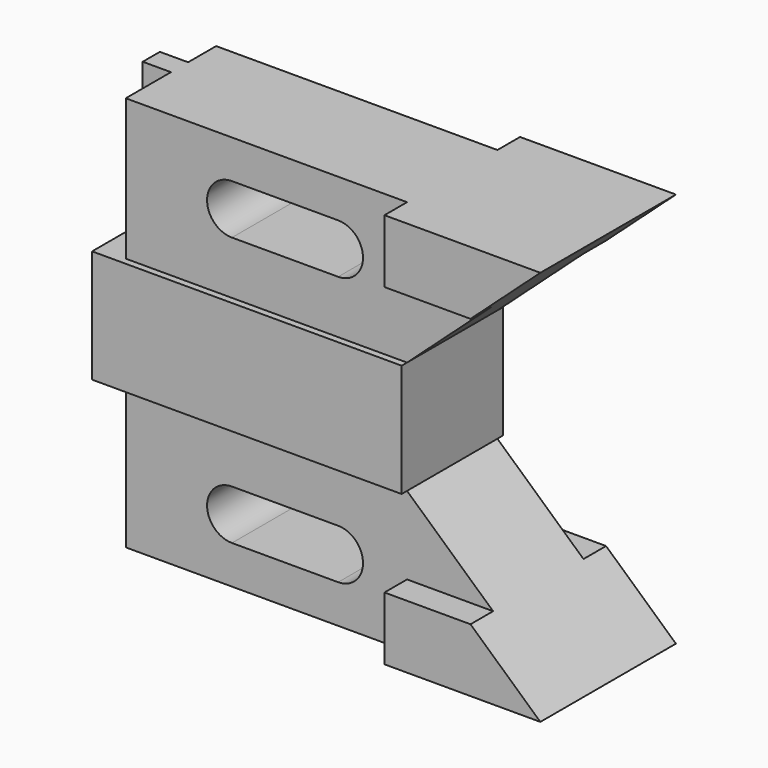
from build123d import *

# Parameters (mm, degrees)
F1_DEPTH = 14.224
F0_W     = 6.35
F0_H     = 17.526
F0_H_2   = 14.224
F2_DEPTH = 4.826
F3_DEPTH = 12.7
F4_DEPTH = 12.7
F5_DEPTH = 19.05


with BuildPart() as f1:
    # F0 (on Front) → F1 (new body, symmetric)
    with BuildSketch(Plane.XZ):
        Polygon((17.272, 12.7), (-45.974, 12.7), (-52.324, 12.7), (-52.324, -12.7), (-45.974, -12.7), (17.272, -12.7), align=None)
    extrude(amount=F1_DEPTH, both=True)

    # F0 (on Front) → F2 (join)
    with BuildSketch(Plane.XZ):
        Polygon((-45.974, 44.45), (-52.324, 44.45), (-52.324, 30.226), (-52.324, 12.7), (-45.974, 12.7), align=None)
        with Locations((-49.149, -21.463)):
            Rectangle(F0_W, F0_H)
        with Locations((-49.149, -37.338)):
            Rectangle(F0_W, F0_H_2)
    extrude(amount=-F2_DEPTH)

    # F0 (on Front) → F3 (join, symmetric)
    with BuildSketch(Plane.XZ):
        Polygon((17.272, 44.45), (-45.974, 44.45), (-45.974, 12.7), (17.272, 12.7), (36.620704, 30.226), (17.272, 30.226), align=None)
        with BuildLine():
            ThreePointArc((-22.098, 24.638), (-27.686, 30.226), (-22.098, 35.814))
            Line((-22.098, 35.814), (1.778, 35.814))
            ThreePointArc((1.778, 35.814), (5.7293126933, 34.1773126933), (7.366, 30.226))
            ThreePointArc((7.366, 30.226), (5.7293126933, 26.2746873067), (1.778, 24.638))
            Line((1.778, 24.638), (-22.098, 24.638))
        make_face(mode=Mode.SUBTRACT)
    extrude(amount=F3_DEPTH, both=True)

    # F0 (on Front) → F4 (join, symmetric)
    with BuildSketch(Plane.XZ):
        Polygon((36.620704, -30.226), (17.272, -12.7), (-45.974, -12.7), (-45.974, -30.226), (-45.974, -44.45), (17.272, -44.45), (17.272, -30.226), align=None)
        with BuildLine():
            ThreePointArc((-22.098, -35.814), (-26.0493126933, -34.1773126933), (-27.686, -30.226))
            ThreePointArc((-27.686, -30.226), (-26.0493126933, -26.2746873067), (-22.098, -24.638))
            Line((-22.098, -24.638), (1.778, -24.638))
            ThreePointArc((1.778, -24.638), (5.7293126933, -26.2746873067), (7.366, -30.226))
            ThreePointArc((7.366, -30.226), (5.7293126933, -34.1773126933), (1.778, -35.814))
            Line((1.778, -35.814), (-22.098, -35.814))
        make_face(mode=Mode.SUBTRACT)
    extrude(amount=F4_DEPTH, both=True)

    # F0 (on Front) → F5 (join, symmetric)
    with BuildSketch(Plane.XZ):
        Polygon((52.324, 44.45), (17.272, 44.45), (17.272, 30.226), (36.620704, 30.226), align=None)
        Polygon((17.272, -44.45), (52.324, -44.45), (36.620704, -30.226), (17.272, -30.226), align=None)
    extrude(amount=F5_DEPTH, both=True)


solid = f1.part
